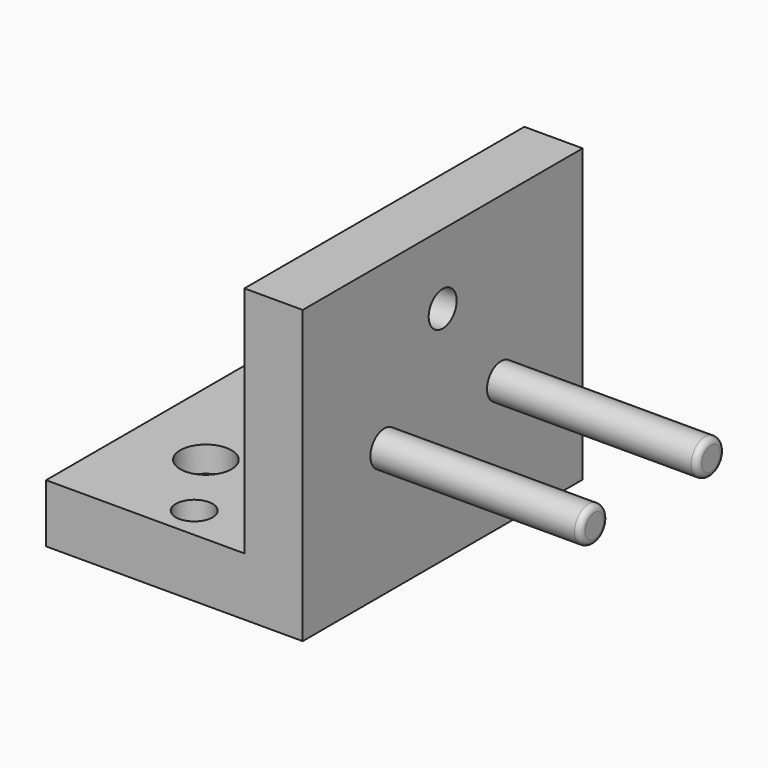
from build123d import *

# Parameters (mm, degrees)
F0_W           = 22
F0_H           = 30
F1_DEPTH       = 5
F2_W           = 5
F2_H           = 30
F3_DEPTH       = 20
F5_D           = 2.2
F5_CBORE_D     = 4.4
F5_CBORE_DEPTH = 2.2
F6_R           = 1.5
F7_DEPTH       = 25
F8_R           = 1.5
F9_DEPTH       = 23
F10_R          = 0.5
F11_R          = 1.575
F12_DEPTH      = 4.5
F13_R          = 1.5
F14_DEPTH      = 3
F15_R          = 0.5
F16_DEPTH      = 25


with BuildPart() as f1:
    # F0 (on Top) → F1 (new body)
    with BuildSketch(Plane.XY):
        with Locations((11, 15)):
            Rectangle(F0_W, F0_H)
    extrude(amount=F1_DEPTH)

    # F2 (on face) → F3 (join)
    with BuildSketch(Plane.XY.offset(5)):
        with Locations((19.5, 15)):
            Rectangle(F2_W, F2_H)
    extrude(amount=F3_DEPTH)

    # F5 (through all)
    with Locations(Plane.XY.offset(5)):
        with Locations((6.5, 9), (6.5, 21), (14.5, 21), (14.5, 9)):
            CounterBoreHole(F5_D / 2, F5_CBORE_D / 2, F5_CBORE_DEPTH)

    # F6 (on face) → F7 (cut)
    with BuildSketch(Plane.YZ.offset(22)):
        with Locations((8.75, 11)):
            Circle(F6_R)
        with Locations((21.25, 11)):
            Circle(F6_R)
    extrude(amount=-F7_DEPTH, mode=Mode.SUBTRACT)

    # F11 (on face) → F12 (cut)
    with BuildSketch(Plane.XY.offset(5)):
        with Locations((10.5, 2.75)):
            Circle(F11_R)
    extrude(amount=-F12_DEPTH, mode=Mode.SUBTRACT)

    # F13 (on face) → F14 (cut)
    with BuildSketch(Plane.YZ.offset(22)):
        with Locations((15, 19)):
            Circle(F13_R)
    extrude(amount=-F14_DEPTH, mode=Mode.SUBTRACT)

    # F15 (on face) → F16 (cut)
    with BuildSketch(Plane.YZ.offset(19)):
        with Locations((15, 19)):
            Circle(F15_R)
    extrude(amount=-F16_DEPTH, mode=Mode.SUBTRACT)


with BuildPart() as f9:
    # F8 (on face) → F9 (new body)
    with BuildSketch(Plane(origin=(17, 0, 0), x_dir=(0, -1, 0), z_dir=(-1, 0, 0))):
        with Locations((-8.75, 11)):
            Circle(F8_R)
        with Locations((-21.25, 11)):
            Circle(F8_R)
    extrude(amount=-F9_DEPTH)

    # F10
    f10_edges = [f9.edges().sort_by_distance(p)[0] for p in [
        (40, 10.25, 11),
        (40, 22.75, 11),
    ]]
    fillet(f10_edges, radius=F10_R)


solid = Compound([f1.part, f9.part])
